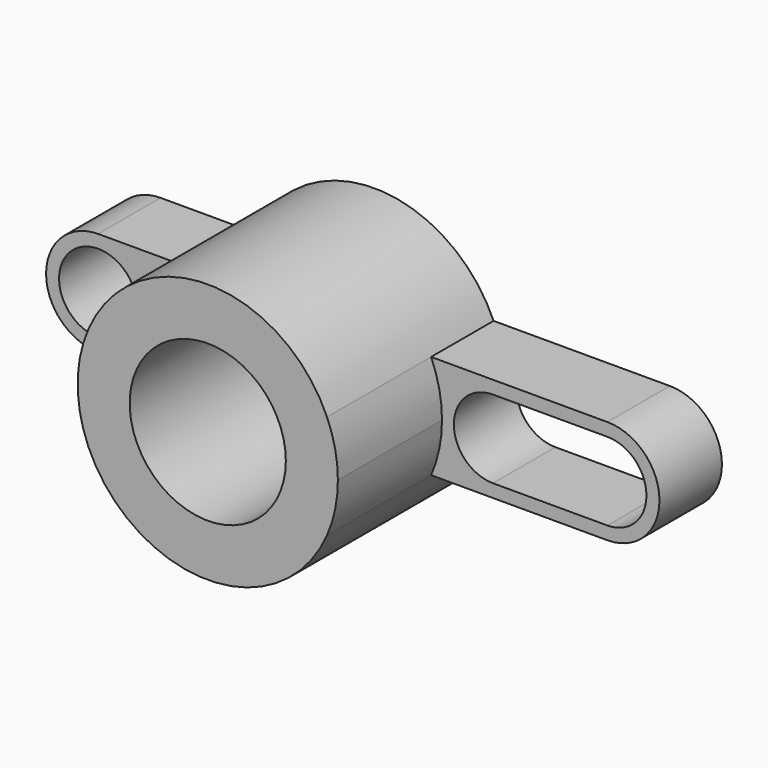
from build123d import *

# Parameters (mm, degrees)
F0_R     = 19.05
F1_DEPTH = 50.8
F0_R_2   = 9.525
F2_DEPTH = 19.05


with BuildPart() as f1:
    # F0 (on Front) → F1 (new body)
    with BuildSketch(Plane.XZ):
        with BuildLine():
            ThreePointArc((29.099356, -12.7), (31.080275, -6.486831), (31.75, 0))
            ThreePointArc((31.75, 0), (31.080275, 6.486831), (29.099356, 12.7))
            ThreePointArc((29.099356, 12.7), (0, 31.75), (-29.099356, 12.7))
            ThreePointArc((-29.099356, 12.7), (-31.75, 0), (-29.099356, -12.7))
            ThreePointArc((-29.099356, -12.7), (0, -31.75), (29.099356, -12.7))
        make_face()
        Circle(F0_R, mode=Mode.SUBTRACT)
    extrude(amount=F1_DEPTH)

    # F0 (on Front) → F2 (join)
    with BuildSketch(Plane.XZ):
        with BuildLine():
            ThreePointArc((-29.099356, -12.7), (-31.75, 0), (-29.099356, 12.7))
            Line((-29.099356, 12.7), (-52.149535, 12.7))
            ThreePointArc((-52.149535, 12.7), (-64.849535, 0), (-52.149535, -12.7))
            Line((-52.149535, -12.7), (-29.099356, -12.7))
        make_face()
        with Locations((-52.149535, 0)):
            Circle(F0_R_2, mode=Mode.SUBTRACT)
        with BuildLine():
            ThreePointArc((29.099356, 12.7), (31.080275, 6.486831), (31.75, 0))
            ThreePointArc((31.75, 0), (31.080275, -6.486831), (29.099356, -12.7))
            Line((29.099356, -12.7), (72.10981, -12.7))
            ThreePointArc((72.10981, -12.7), (84.80981, 0), (72.10981, 12.7))
            Line((72.10981, 12.7), (29.099356, 12.7))
        make_face()
        with BuildLine():
            ThreePointArc((72.10981, 9.525), (81.63481, 0), (72.10981, -9.525))
            Line((72.10981, -9.525), (44.16981, -9.525))
            ThreePointArc((44.16981, -9.525), (34.64481, 0), (44.16981, 9.525))
            Line((44.16981, 9.525), (72.10981, 9.525))
        make_face(mode=Mode.SUBTRACT)
    extrude(amount=F2_DEPTH)


solid = f1.part
